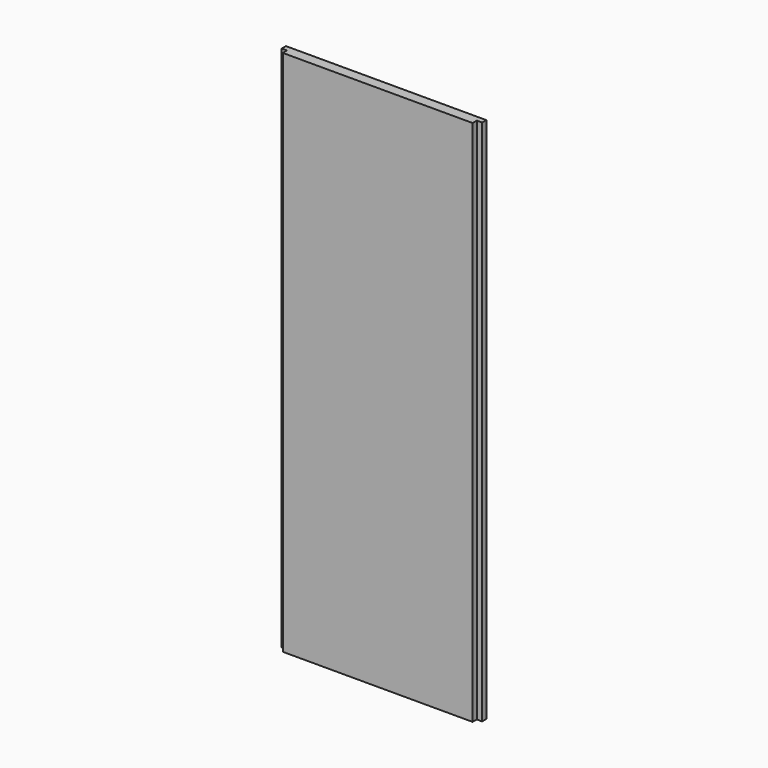
from build123d import *

# Parameters (mm, degrees)
F0_W     = 360
F0_H     = 1000
F1_DEPTH = 20
F0_W_2   = 10
F2_DEPTH = 10


with BuildPart() as f1:
    # F0 (on Front) → F1 (new body)
    with BuildSketch(Plane.XZ):
        with Locations((-20.559666, 280.016852)):
            Rectangle(F0_W, F0_H)
    extrude(amount=F1_DEPTH)

    # F0 (on Front) → F2 (join)
    with BuildSketch(Plane.XZ):
        with Locations((164.440334, 280.016852)):
            Rectangle(F0_W_2, F0_H)
        with Locations((-205.559666, 280.016852)):
            Rectangle(F0_W_2, F0_H)
    extrude(amount=F2_DEPTH)


solid = f1.part
